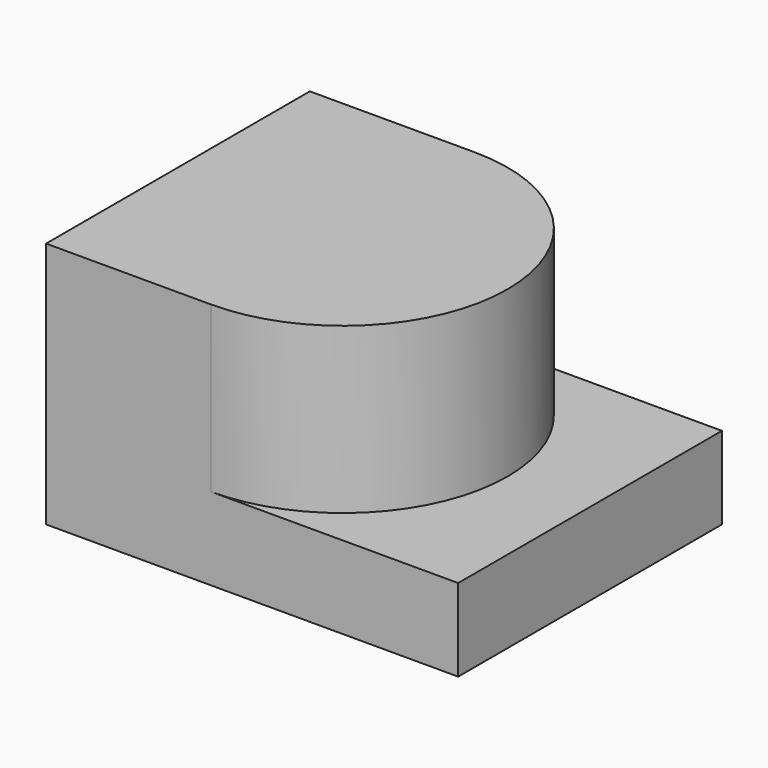
from build123d import *

# Parameters (mm, degrees)
F0_W     = 5
F0_H     = 4
F1_DEPTH = 1
F3_DEPTH = 2


with BuildPart() as f1:
    # F0 (on Top) → F1 (new body)
    with BuildSketch(Plane.XY):
        with Locations((2.5, 2)):
            Rectangle(F0_W, F0_H)
    extrude(amount=F1_DEPTH)

    # F2 (on face) → F3 (join)
    with BuildSketch(Plane.XY.offset(1)):
        with BuildLine():
            Line((0, 0), (2, 0))
            ThreePointArc((2, 0), (4, 2), (2, 4))
            Line((2, 4), (0, 4))
            Line((0, 4), (0, 0))
        make_face()
    extrude(amount=F3_DEPTH)


solid = f1.part
